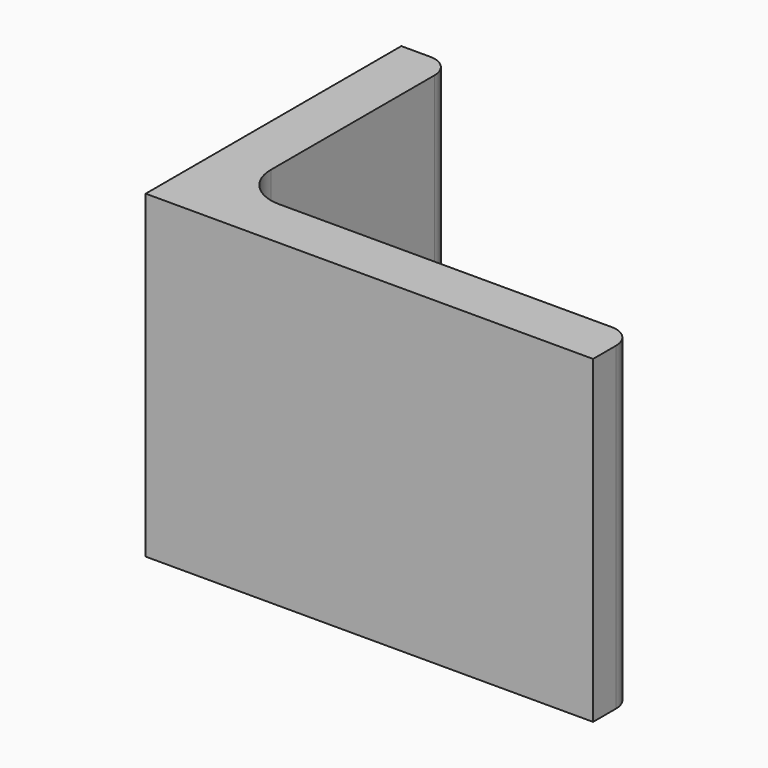
from build123d import *

# Parameters (mm, degrees)
EXTRUDE_DEPTH = 50


with BuildPart() as part:
    # Sketch → Extrude (new body)
    with BuildSketch(Plane.XY):
        with BuildLine():
            Line((0, 0), (70, 0))
            Line((70, 0), (70, 4.5))
            ThreePointArc((70, 4.5), (68.974874, 6.974874), (66.5, 8))
            Line((66.5, 8), (14.5, 8))
            ThreePointArc((8, 14.5), (9.903806, 9.903806), (14.5, 8))
            Line((8, 46.5), (8, 14.5))
            ThreePointArc((8, 46.5), (6.974874, 48.974874), (4.5, 50))
            Line((0, 50), (4.5, 50))
            Line((0, 0), (0, 50))
        make_face()
    extrude(amount=EXTRUDE_DEPTH)


solid = part.part
